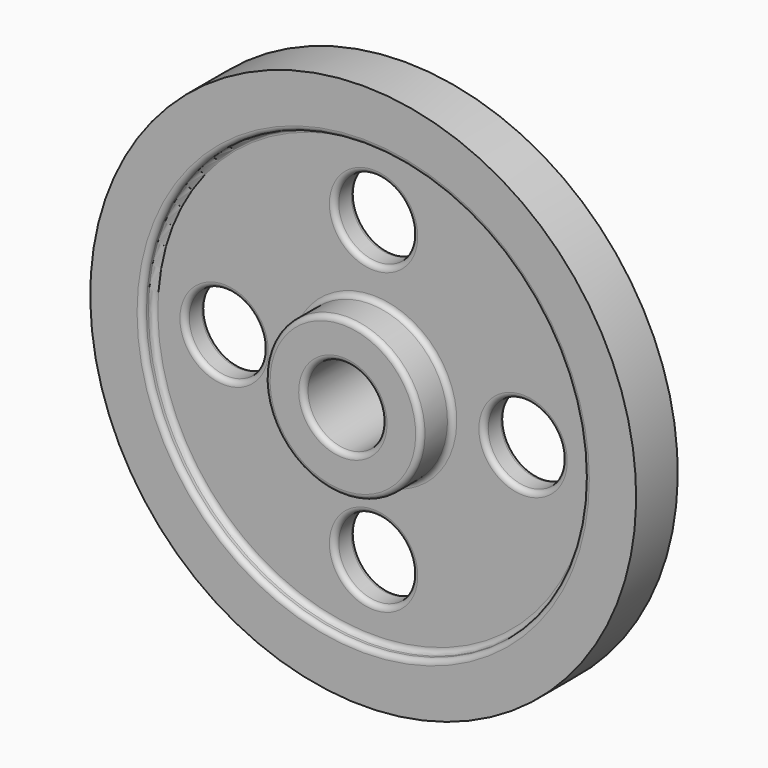
from build123d import *

# Parameters (mm, degrees)
F0_W     = 6.35
F0_H     = 34.925
F2_R     = 19.05
F3_DEPTH = 25.4
F4_R     = 2.54
F5_R     = 2.54


with BuildPart() as f1:
    # F0 (on Right) → F1 (revolve)
    with BuildSketch(Plane.YZ):
        Polygon((-6.35, 107.95), (0, 107.95), (0, 133.35), (-12.7, 133.35), (-12.7, 107.95), align=None)
        Polygon((0, 133.35), (0, 107.95), (6.35, 107.95), (12.7, 107.95), (12.7, 133.35), align=None)
        Polygon((-6.35, 38.1), (0, 38.1), (0, 73.025), (0, 107.95), (-6.35, 107.95), align=None)
        with Locations((3.175, 90.4875)):
            Rectangle(F0_W, F0_H)
        with Locations((3.175, 55.5625)):
            Rectangle(F0_W, F0_H)
        Polygon((-25.105368346, 19.05), (0, 19.05), (0, 38.1), (-6.35, 38.1), (-25.105368346, 38.1), align=None)
        Polygon((0, 38.1), (0, 19.05), (25.105368346, 19.05), (25.105368346, 38.1), (6.35, 38.1), align=None)
    revolve(axis=Axis((0, 6.35, 0), (0, 1, 0)))

    # F2 (on face) → F3 (cut)
    with BuildSketch(Plane(origin=(0, 6.35, 0), x_dir=(-1, 0, 0), z_dir=(0, 1, 0))):
        with BuildLine():
            ThreePointArc((0, 53.975), (13.4703841816, 59.5546158184), (19.05, 73.025))
            ThreePointArc((19.05, 73.025), (-13.4703841816, 86.4953841816), (0, 53.975))
        make_face()
        with Locations((-73.025, 0)):
            Circle(F2_R)
        with Locations((0, -73.025)):
            Circle(F2_R)
        with Locations((73.025, 0)):
            Circle(F2_R)
    extrude(amount=-F3_DEPTH, mode=Mode.SUBTRACT)

    # F4
    f4_edges = [f1.edges().sort_by_distance(p)[0] for p in [
        (0, -12.7, -107.95),
        (0, -6.35, -107.95),
        (0, -9.525, 107.95),
        (-53.975, -6.35, 0),
        (19.05, -6.35, -73.025),
        (0, -6.35, -38.1),
        (0, -6.35, 92.075),
        (92.075, -6.35, 0),
        (0, -25.105368, -38.1),
        (0, -15.727684, 38.1),
        (0, -25.105368, -19.05),
    ]]
    fillet(f4_edges, radius=F4_R)

    # F5
    f5_edges = [f1.edges().sort_by_distance(p)[0] for p in [
        (0, 12.7, -107.95),
        (0, 6.35, -107.95),
        (-53.975, 6.35, 0),
        (0, 6.35, 92.075),
        (0, 6.35, -38.1),
        (19.05, 6.35, -73.025),
        (92.075, 6.35, 0),
        (0, 25.105368, -38.1),
    ]]
    fillet(f5_edges, radius=F5_R)


solid = f1.part
